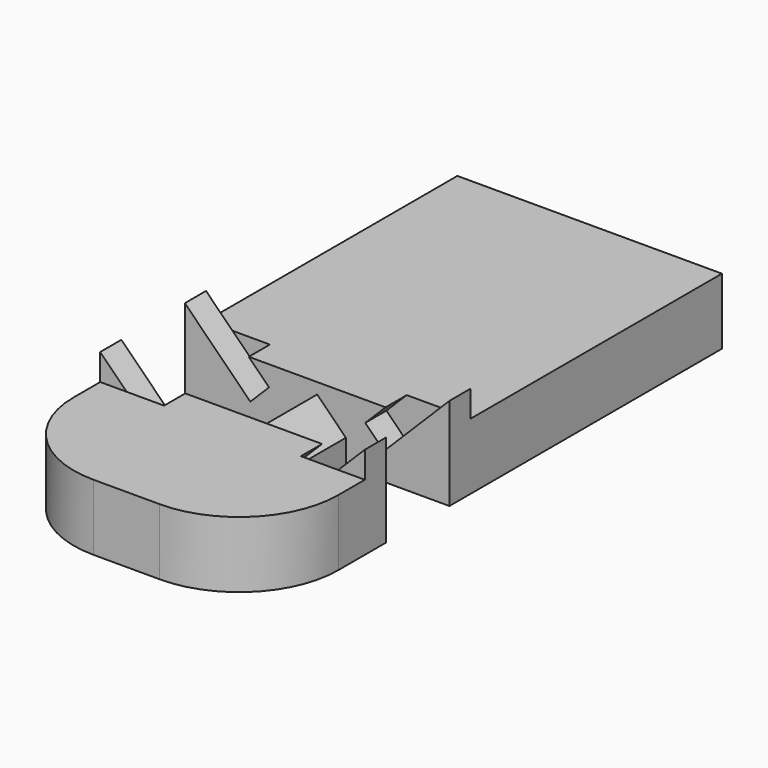
from build123d import *

# Parameters (mm, degrees)
PAD337_DEPTH            = 5
POCKET353_DEPTH         = 3
POCKET353_DEPTH_BACK    = 3
SKETCH676_W             = 10
SKETCH676_H             = 2
POCKET351_DEPTH         = 5
POCKET351_DEPTH_BACK    = 2
SKETCH665_W             = 10
SKETCH665_H             = 2
POCKET359_DEPTH         = 5
POCKET359_DEPTH_BACK    = 2
POCKET359_FACE20_W      = 6
POCKET359_FACE20_H      = 5
POCKET360_DEPTH         = 5
POCKET360_FACE26_W      = 6
POCKET360_FACE26_H      = 5
POCKET355_DEPTH         = 5
PAD327_DEPTH            = 2
POCKET357_DEPTH         = 2
POCKET357_FACE66_W      = 6
POCKET357_FACE66_H      = 2.071068
POCKET346_DEPTH         = 5
POCKET346_FACE38_W      = 6
POCKET346_FACE38_H      = 2.071068
POCKET341_DEPTH         = 5
BODY212_PLACEMENT_ANGLE = 180


with BuildPart() as part:
    # Sketch668 → Pad337 (new body)
    with BuildSketch(Plane.XY):
        with BuildLine():
            Line((-10, -28.75), (10, -28.75))
            Line((10, -28.75), (10, 7.5))
            ThreePointArc((10, 7.5), (7.803301, 12.803301), (2.5, 15))
            Line((2.5, 15), (-2.5, 15))
            ThreePointArc((-2.5, 15), (-7.803301, 12.803301), (-10, 7.5))
            Line((-10, 7.5), (-10, -28.75))
        make_face()
    extrude(amount=PAD337_DEPTH)

    # Sketch672 → Pocket353 (cut, two sides)
    with BuildSketch(Plane.XZ) as pocket353_sk:
        Polygon((-10, 0), (-10, 5), (-8.585786, 6.414214), (-2.171573, 0), (-5, 0), align=None)
        Polygon((10, 0), (10, 5), (8.585786, 6.414214), (2.171573, 0), (5, 0), align=None)
    extrude(amount=-POCKET353_DEPTH, mode=Mode.SUBTRACT)
    extrude(pocket353_sk.sketch, amount=POCKET353_DEPTH_BACK, mode=Mode.SUBTRACT)

    # Sketch676 (on DatumPlane) → Pocket351 (cut, two sides)
    with BuildSketch(Plane(origin=(-7.171573, 3, 5), x_dir=(0, -1, 0), z_dir=(-0.707107, 0, 0.707107))) as pocket351_sk:
        with Locations((3, -1)):
            Rectangle(SKETCH676_W, SKETCH676_H)
    extrude(amount=-POCKET351_DEPTH, mode=Mode.SUBTRACT)
    extrude(pocket351_sk.sketch, amount=POCKET351_DEPTH_BACK, mode=Mode.SUBTRACT)

    # Sketch665 (on DatumPlane) → Pocket359 (cut, two sides)
    with BuildSketch(Plane(origin=(7.171573, 3, 5), x_dir=(0, 1, 0), z_dir=(0.707107, 0, 0.707107))) as pocket359_sk:
        with Locations((-3, -1)):
            Rectangle(SKETCH665_W, SKETCH665_H)
    extrude(amount=-POCKET359_DEPTH, mode=Mode.SUBTRACT)
    extrude(pocket359_sk.sketch, amount=POCKET359_DEPTH_BACK, mode=Mode.SUBTRACT)

    # Pocket359 Face20 → Pocket360 (cut)
    with BuildSketch(Plane(origin=(-5.403806, 0, 3.232233), x_dir=(0, 1, 0), z_dir=(-0.707107, 0, -0.707107))):
        Rectangle(POCKET359_FACE20_W, POCKET359_FACE20_H)
    extrude(amount=-POCKET360_DEPTH, mode=Mode.SUBTRACT)

    # Pocket360 Face26 → Pocket355 (cut)
    with BuildSketch(Plane(origin=(5.403806, 0, 3.232233), x_dir=(0, -1, 0), z_dir=(0.707107, 0, -0.707107))):
        Rectangle(POCKET360_FACE26_W, POCKET360_FACE26_H)
    extrude(amount=-POCKET355_DEPTH, mode=Mode.SUBTRACT)

    # Pocket355 Face4 → Pad327 (add)
    with BuildSketch(Plane(origin=(0, -8.372552, 0), x_dir=(0, -1, 0), z_dir=(0, 0, -1))):
        with BuildLine():
            Line((20.377448, 10), (-5.372552, 10))
            Line((-5.372552, 10), (-5.372552, 5))
            Line((-5.372552, 5), (-5.372552, 2.171573))
            Line((-5.372552, 2.171573), (-11.372552, 2.171573))
            Line((-11.372552, 2.171573), (-11.372552, 5))
            Line((-11.372552, 5), (-11.372552, 10))
            Line((-11.372552, 10), (-15.872552, 10))
            ThreePointArc((-15.872552, 10), (-21.175853, 7.803301), (-23.372552, 2.5))
            Line((-23.372552, 2.5), (-23.372552, -2.5))
            ThreePointArc((-23.372552, -2.5), (-21.175853, -7.803301), (-15.872552, -10))
            Line((-15.872552, -10), (-11.372552, -10))
            Line((-11.372552, -10), (-11.372552, -5))
            Line((-11.372552, -5), (-11.372552, -2.171573))
            Line((-11.372552, -2.171573), (-5.372552, -2.171573))
            Line((-5.372552, -2.171573), (-5.372552, -5))
            Line((-5.372552, -5), (-5.372552, -10))
            Line((-5.372552, -10), (20.377448, -10))
            Line((20.377448, -10), (20.377448, 10))
        make_face()
    extrude(amount=PAD327_DEPTH)

    # Pad327 Face5 → Pocket357 (cut)
    with BuildSketch(Plane(origin=(0, -8.9329, 5), x_dir=(0, 1, 0), z_dir=(0, 0, 1))):
        with BuildLine():
            Line((11.9329, 0.100505), (5.9329, 0.100505))
            Line((5.9329, 0.100505), (5.9329, 7.171573))
            Line((5.9329, 7.171573), (3.9329, 7.171573))
            Line((3.9329, 7.171573), (3.9329, 10))
            Line((3.9329, 10), (-19.8171, 10))
            Line((-19.8171, 10), (-19.8171, -10))
            Line((-19.8171, -10), (3.9329, -10))
            Line((3.9329, -10), (3.9329, -7.171573))
            Line((3.9329, -7.171573), (5.9329, -7.171573))
            Line((5.9329, -7.171573), (5.9329, -0.100505))
            Line((5.9329, -0.100505), (11.9329, -0.100505))
            Line((11.9329, -0.100505), (11.9329, -7.171573))
            Line((11.9329, -7.171573), (13.9329, -7.171573))
            Line((13.9329, -7.171573), (13.9329, -10))
            Line((13.9329, -10), (16.4329, -10))
            ThreePointArc((16.4329, -10), (21.736201, -7.803301), (23.9329, -2.5))
            Line((23.9329, -2.5), (23.9329, 2.5))
            ThreePointArc((23.9329, 2.5), (21.736201, 7.803301), (16.4329, 10))
            Line((16.4329, 10), (13.9329, 10))
            Line((13.9329, 10), (13.9329, 7.171573))
            Line((13.9329, 7.171573), (11.9329, 7.171573))
            Line((11.9329, 7.171573), (11.9329, 0.100505))
        make_face()
    extrude(amount=-POCKET357_DEPTH, mode=Mode.SUBTRACT)

    # Pocket357 Face66 → Pocket346 (cut)
    with BuildSketch(Plane(origin=(-2.903806, 0, 0.732233), x_dir=(0, 1, 0), z_dir=(-0.707107, 0, -0.707107))):
        Rectangle(POCKET357_FACE66_W, POCKET357_FACE66_H)
    extrude(amount=-POCKET346_DEPTH, mode=Mode.SUBTRACT)

    # Pocket346 Face38 → Pocket341 (cut)
    with BuildSketch(Plane(origin=(2.903806, 0, 0.732233), x_dir=(0, -1, 0), z_dir=(0.707107, 0, -0.707107))):
        Rectangle(POCKET346_FACE38_W, POCKET346_FACE38_H)
    extrude(amount=-POCKET341_DEPTH, mode=Mode.SUBTRACT)


with BuildPart() as part_1:
    # Body212 placement: moved
    add(part.part.moved(Location((0, -103.75, 2))).rotate(Axis((0, -103.75, 2), (0, 0, 1)), BODY212_PLACEMENT_ANGLE))


solid = part_1.part
